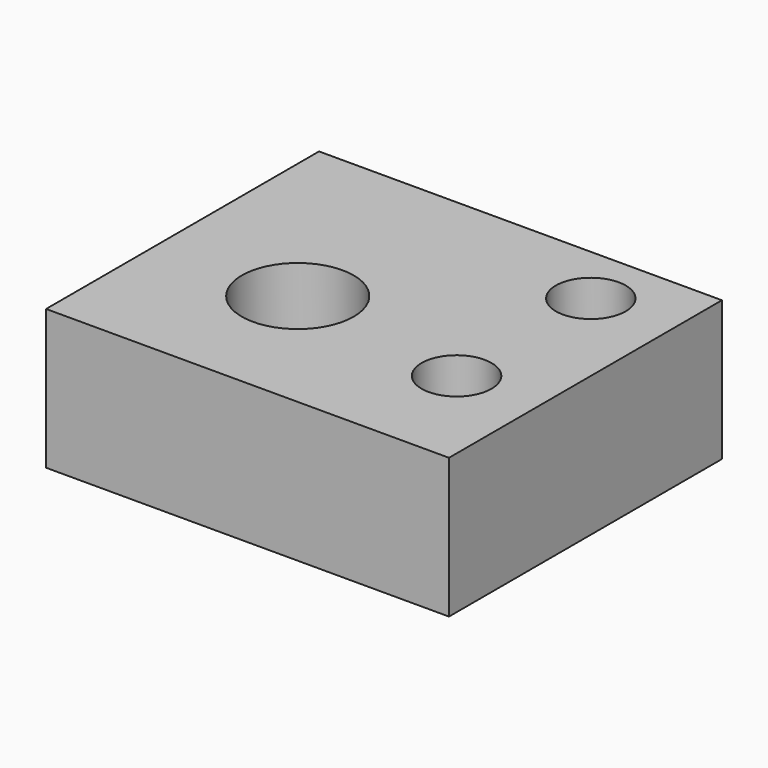
from build123d import *

# Parameters (mm, degrees)
SKETCH_W        = 28.817356
SKETCH_H        = 24.401199
PAD_DEPTH       = 10
SKETCH001_R     = 4
POCKET_DEPTH    = 10.001
SKETCH002_R     = 2.5
POCKET001_DEPTH = 6


with BuildPart() as part:
    # Sketch → Pad (new body)
    with BuildSketch(Plane.XY):
        with Locations((14.408678, 12.200599)):
            Rectangle(SKETCH_W, SKETCH_H)
    extrude(amount=PAD_DEPTH)

    # Sketch001 → Pocket (cut, through all)
    with BuildSketch(Plane.XY):
        with Locations((10, 10)):
            Circle(SKETCH001_R)
    extrude(amount=POCKET_DEPTH, mode=Mode.SUBTRACT)

    # Sketch002 (on Face5 of Pocket) → Pocket001 (cut)
    with BuildSketch(Plane.XY.offset(10)):
        with Locations((22.960093, 8)):
            Circle(SKETCH002_R)
        with Locations((22.960093, 20)):
            Circle(SKETCH002_R)
    extrude(amount=-POCKET001_DEPTH, mode=Mode.SUBTRACT)


solid = part.part
